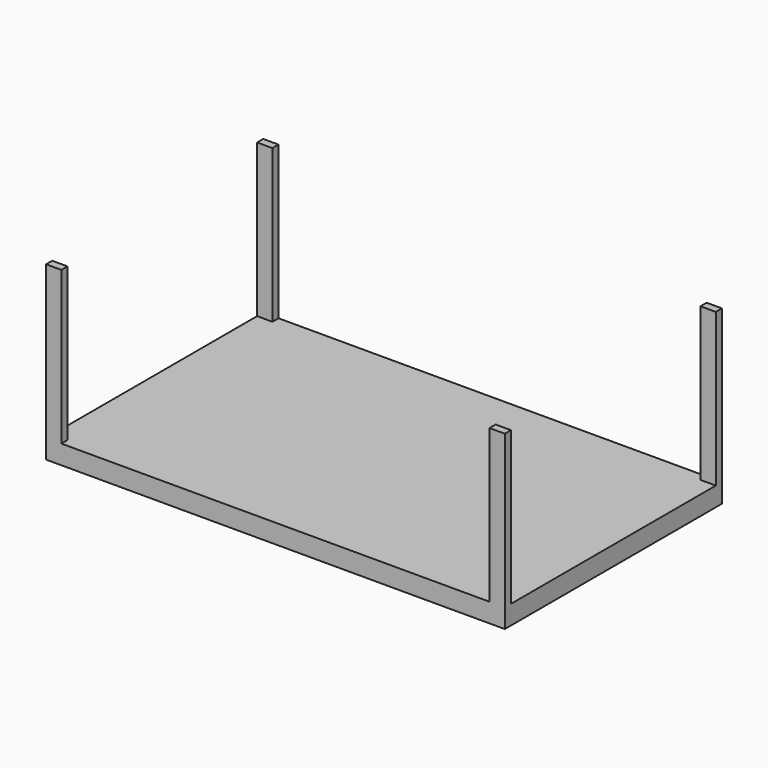
from build123d import *

# Parameters (mm, degrees)
F0_W     = 40
F0_H     = 400
F1_DEPTH = 710
F2_W     = 670
F2_H     = 400
F3_DEPTH = 1250
F4_SCALE = 0.1
F5_ANGLE = 180


with BuildPart() as f1:
    # F0 (on Front) → F1 (new body)
    with BuildSketch(Plane.XZ):
        Polygon((0, 50), (0, 0), (40, 0), (1160, 0), (1200, 0), (1200, 50), align=None)
        with Locations((20, -200)):
            Rectangle(F0_W, F0_H)
        with Locations((1180, -200)):
            Rectangle(F0_W, F0_H)
    extrude(amount=F1_DEPTH)

    # F2 (on face) → F3 (cut)
    with BuildSketch(Plane.YZ.offset(1200)):
        with Locations((-355, -200)):
            Rectangle(F2_W, F2_H)
    extrude(amount=-F3_DEPTH, mode=Mode.SUBTRACT)


with BuildPart() as f1_1:
    # F4: moved
    add(f1.part.scale(F4_SCALE))


with BuildPart() as f1_2:
    # F5: moved
    add(f1_1.part.rotate(Axis((0, -35.5, 5), (0, 1, 0)), F5_ANGLE))


solid = f1_2.part
